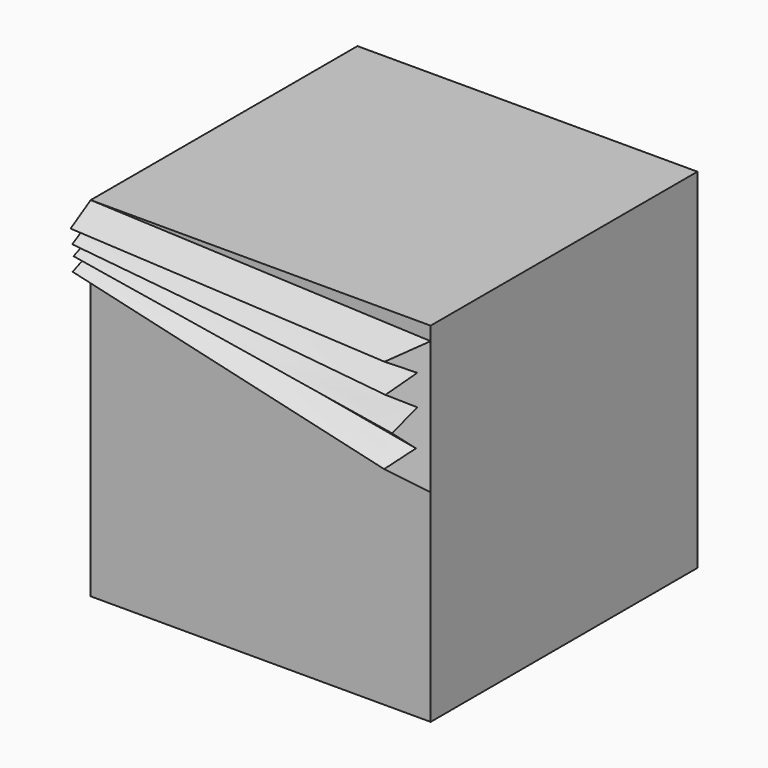
from build123d import *

# Parameters (mm, degrees)
F0_W     = 81.678458
F0_H     = 80.120139
F1_DEPTH = 83.81969
F6_DEPTH = 83.82069


with BuildPart() as f1:
    # F0 (on Top) → F1 (new body)
    with BuildSketch(Plane.XY):
        with Locations((40.839229, 40.060069)):
            Rectangle(F0_W, F0_H)
    extrude(amount=F1_DEPTH)

    # F2 (on face) → F4 section 0
    with BuildSketch(Plane.YZ.offset(81.678458)):
        Polygon((0, 48.545107), (0, 80.539919), (-6.469702, 76.612413), (-1.871645, 73.930211), (-6.37391, 69.332153), (-1.871645, 66.554159), (-5.404703, 60.828167), (-2.06323, 57.741221), (-6.575088, 52.857349), align=None)
    # F3 (on face) → F4 section 1
    with BuildSketch(Plane(origin=(0, 0, 0), x_dir=(0, -1, 0), z_dir=(-1, 0, 0))):
        Polygon((6.032056, 80.237612), (0, 83.81969), (0, 68.663813), (5.409211, 70.837572), (1.381365, 72.499856), (5.153475, 74.034274), (1.381365, 75.568691), (5.53708, 76.7195), (1.381365, 79.021126), align=None)
    loft()

    # F5 (on face) → F6 (cut, through all)
    with BuildSketch(Plane.XY.offset(83.81969)):
        Polygon((83.874113, -8.362563), (81.678458, 0), (73.979422, -8.362563), align=None)
    extrude(amount=-F6_DEPTH, mode=Mode.SUBTRACT)


solid = f1.part
